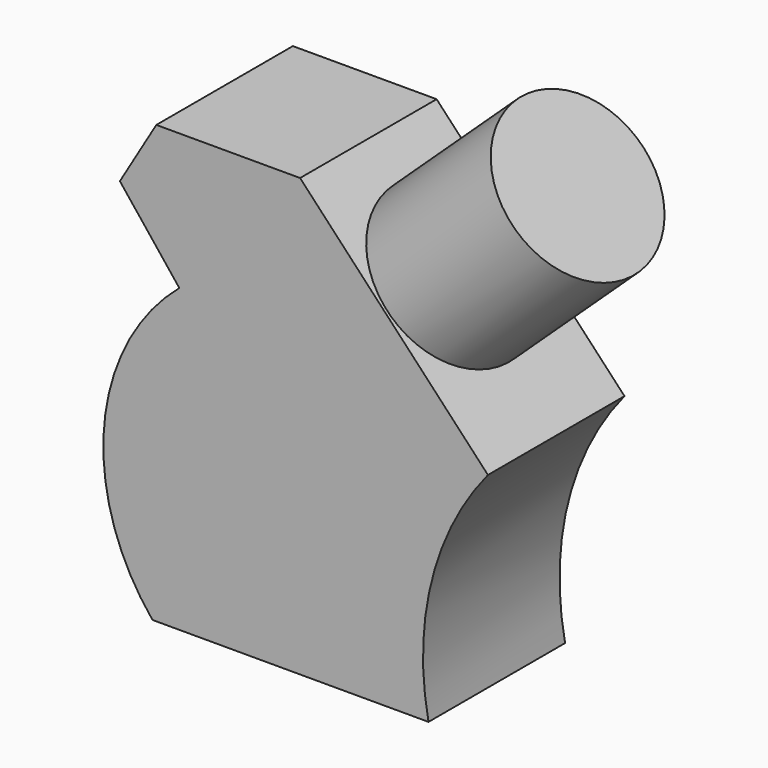
from build123d import *

# Parameters (mm, degrees)
F1_DEPTH = 25.4
F2_R     = 12.285522
F3_DEPTH = 25.4


with BuildPart() as f1:
    # F0 (on Front) → F1 (new body)
    with BuildSketch(Plane.XZ):
        with BuildLine():
            ThreePointArc((-13.121069, 9.555561), (-24.301618, -12.016886), (-17.114438, -35.227221))
            Line((-17.114438, -35.227221), (23.960214, -35.227221))
            ThreePointArc((23.960214, -35.227221), (24.416241, -16.618295), (32.802679, 0))
            Line((32.802679, 0), (4.849092, 29.807648))
            Line((4.849092, 29.807648), (-16.543956, 29.807648))
            Line((-16.543956, 29.807648), (-21.963529, 20.679947))
            Line((-21.963529, 20.679947), (-13.121069, 9.555561))
        make_face()
    extrude(amount=F1_DEPTH)

    # F2 (on face) → F3 (join)
    with BuildSketch(Plane(origin=(17.453179, 0, 16.367577), x_dir=(0, 1, 0), z_dir=(0.729428, 0, 0.684057))):
        with Locations((-12.693209, 0)):
            Circle(F2_R)
    extrude(amount=F3_DEPTH)


solid = f1.part
